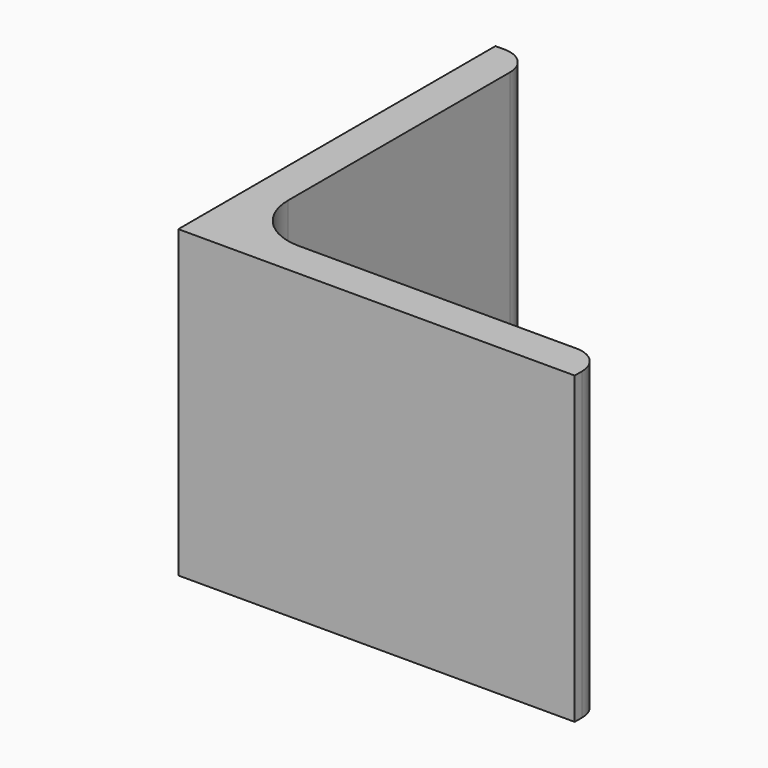
from build123d import *

# Parameters (mm, degrees)
EXTRUDE_DEPTH = 50


with BuildPart() as part:
    # Sketch → Extrude (new body)
    with BuildSketch(Plane.XY):
        with BuildLine():
            Line((0, 0), (65, 0))
            Line((65, 0), (65, 1.5))
            ThreePointArc((65, 1.5), (63.681981, 4.681981), (60.5, 6))
            Line((60.5, 6), (15, 6))
            ThreePointArc((6, 15), (8.636039, 8.636039), (15, 6))
            Line((6, 60.5), (6, 15))
            ThreePointArc((6, 60.5), (4.681981, 63.681981), (1.5, 65))
            Line((0, 65), (1.5, 65))
            Line((0, 0), (0, 65))
        make_face()
    extrude(amount=EXTRUDE_DEPTH)


solid = part.part
